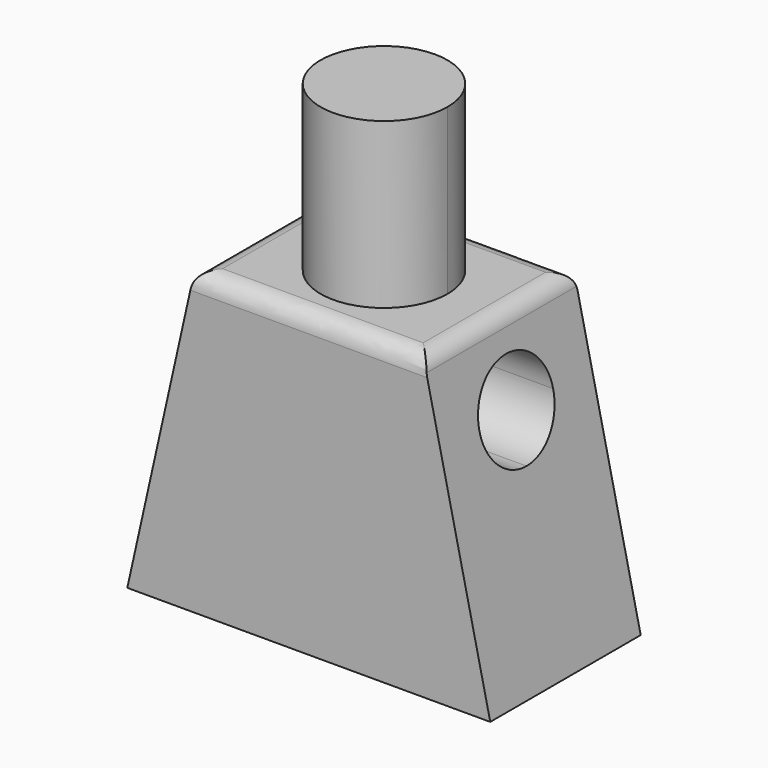
from build123d import *

# Parameters (mm, degrees)
F0_W      = 15.44
F0_H      = 8
F2_W      = 9.74
F2_H      = 8
F4_R      = 0.75
F7_DEPTH  = 100
F8_R      = 3
F9_DEPTH  = 3.5
F11_DEPTH = 7


with BuildPart() as f3:
    # F0 (on Top) → F3 section 0
    with BuildSketch(Plane.XY):
        Rectangle(F0_W, F0_H)
    # F2 (on offset) → F3 section 1
    with BuildSketch(Plane.XY.offset(12.77)):
        Rectangle(F2_W, F2_H)
    loft()

    # F4
    f4_edges = [f3.edges().sort_by_distance(p)[0] for p in [
        (4.87, 0, 12.77),
        (0, -4, 12.77),
        (-4.87, 0, 12.77),
        (0, 4, 12.77),
    ]]
    fillet(f4_edges, radius=F4_R)

    # F6 (on offset) → F7 (cut)
    with BuildSketch(Plane.YZ.offset(25)):
        with BuildLine():
            ThreePointArc((0, 7.4171952983), (1.3859292911, 7.9912660072), (1.96, 9.3771952983))
            ThreePointArc((1.96, 9.3771952983), (-1.3859292911, 10.7631245894), (0, 7.4171952983))
        make_face()
    extrude(amount=-F7_DEPTH, mode=Mode.SUBTRACT)

    # F8 (on Top) → F9 (cut)
    with BuildSketch(Plane.XY):
        with Locations((-3.8095137819, 0)):
            Circle(F8_R)
        with Locations((3.7751071386, 0)):
            Circle(F8_R)
    extrude(amount=F9_DEPTH, mode=Mode.SUBTRACT)

    # F10 (on offset) → F11 (join)
    with BuildSketch(Plane.XY.offset(12.77)):
        with BuildLine():
            ThreePointArc((0, 2.7), (-1.9091883092, -1.9091883092), (2.7, 0))
            ThreePointArc((2.7, 0), (1.9091883092, 1.9091883092), (0, 2.7))
        make_face()
    extrude(amount=F11_DEPTH)


solid = f3.part
